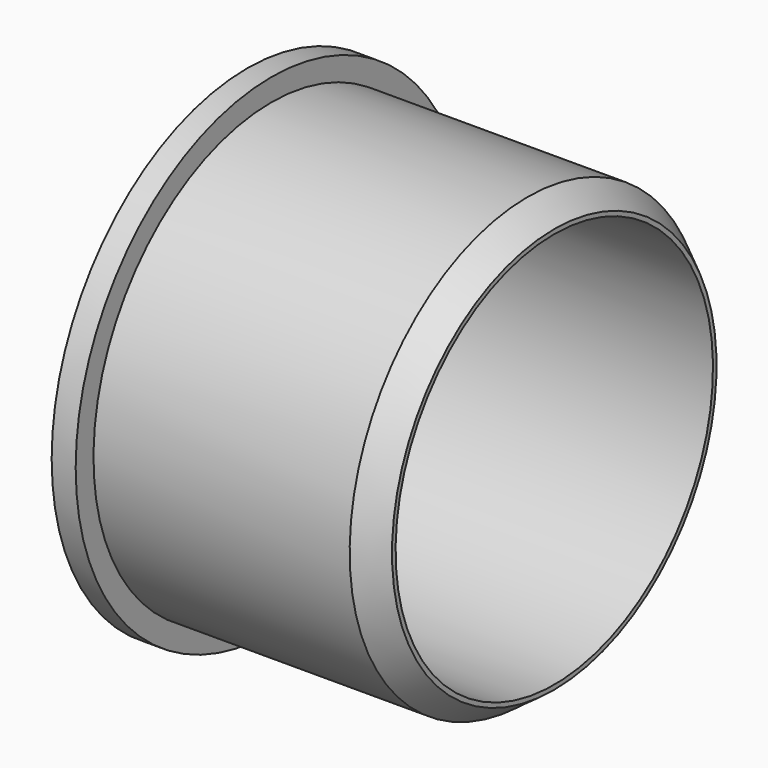
from build123d import *


with BuildPart() as part:
    # Sketch → Revolution (revolve)
    with BuildSketch(Plane.XZ):
        Polygon((0.040665, 0), (0.040665, 27.5), (2.740665, 27.5), (2.740665, 25), (31.540664, 25), (34.540664, 22.8), (34.540664, 22.3), (2.740665, 22.3), (2.740665, 0), align=None)
    revolve(axis=Axis((0, 0, 0), (1, 0, 0)))


solid = part.part
